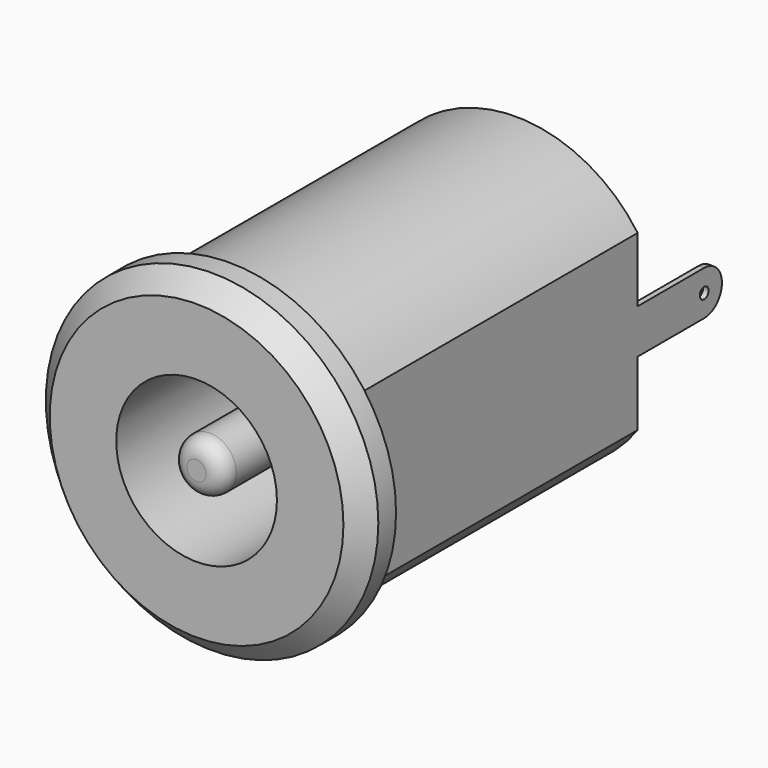
from build123d import *

# Parameters (mm, degrees)
PAD_DEPTH     = 12.9
SKETCH001_R   = 6
PAD001_DEPTH  = 1.5
SKETCH002_R   = 2.9
SKETCH002_R_2 = 0.95
POCKET_DEPTH  = 10
FILLET_R      = 0.6
CHAMFER_SIZE  = 0.7
SKETCH003_R   = 0.2
PAD002_DEPTH  = 0.2


with BuildPart() as part:
    # Sketch → Pad (new body)
    with BuildSketch(Plane.XZ):
        with BuildLine():
            Line((4.4, -3.130495), (4.4, 3.130495))
            ThreePointArc((4.4, 3.130495), (-5.4, 0), (4.4, -3.130495))
        make_face()
    extrude(amount=-PAD_DEPTH)

    # Sketch001 (on Face3 of Pad) → Pad001 (join)
    with BuildSketch(Plane.XZ):
        Circle(SKETCH001_R)
    extrude(amount=PAD001_DEPTH)

    # Sketch002 (on Face3 of Pad001) → Pocket (cut)
    with BuildSketch(Plane.XZ.offset(1.5)):
        Circle(SKETCH002_R)
        Circle(SKETCH002_R_2, mode=Mode.SUBTRACT)
    extrude(amount=-POCKET_DEPTH, mode=Mode.SUBTRACT)

    # Fillet
    fillet_edges = [part.edges().sort_by_distance(p)[0] for p in [
        (-0.95, -1.5, 0),
    ]]
    fillet(fillet_edges, radius=FILLET_R)

    # Chamfer
    chamfer_edges = [part.edges().sort_by_distance(p)[0] for p in [
        (-6, -1.5, 0),
    ]]
    chamfer(chamfer_edges, length=CHAMFER_SIZE)

    # Sketch003 (on Face8 of Chamfer) → Pad002 (join)
    with BuildSketch(Plane(origin=(4.4, 0, 0), x_dir=(0, 0, 1), z_dir=(1, 0, 0))):
        with BuildLine():
            Line((0.8, -12.9), (-0.8, -12.9))
            Line((-0.8, -12.9), (-0.8, -15.9))
            ThreePointArc((-0.8, -15.9), (0, -16.7), (0.8, -15.9))
            Line((0.8, -15.9), (0.8, -12.9))
        make_face()
        with Locations((0, -15.9)):
            Circle(SKETCH003_R, mode=Mode.SUBTRACT)
    pad002 = extrude(amount=-PAD002_DEPTH)

    # Mirrored: Pad002 across YZ
    add(pad002.mirror(Plane.YZ))


solid = part.part
